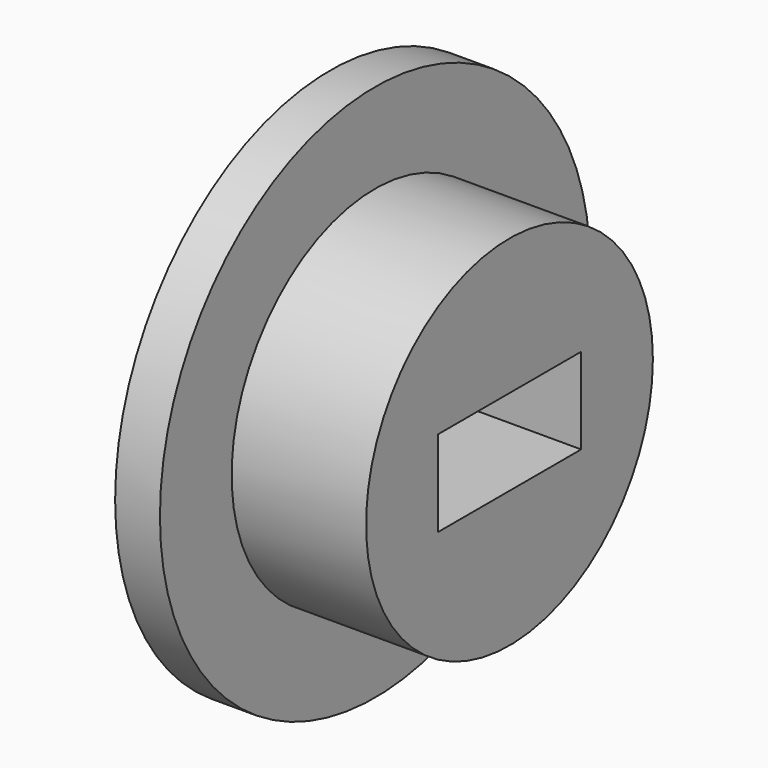
from build123d import *

# Parameters (mm, degrees)
F0_R     = 19.05
F1_DEPTH = 3.175
F2_R     = 12.7
F3_DEPTH = 9.525
F4_W     = 12.7
F4_H     = 6.096
F5_DEPTH = 12.701


with BuildPart() as f1:
    # F0 (on Right) → F1 (new body)
    with BuildSketch(Plane.YZ):
        Circle(F0_R)
    extrude(amount=F1_DEPTH)

    # F2 (on face) → F3 (join)
    with BuildSketch(Plane.YZ.offset(3.175)):
        Circle(F2_R)
    extrude(amount=F3_DEPTH)

    # F4 (on Right) → F5 (cut, through all)
    with BuildSketch(Plane.YZ):
        Rectangle(F4_W, F4_H)
    extrude(amount=F5_DEPTH, mode=Mode.SUBTRACT)


solid = f1.part
